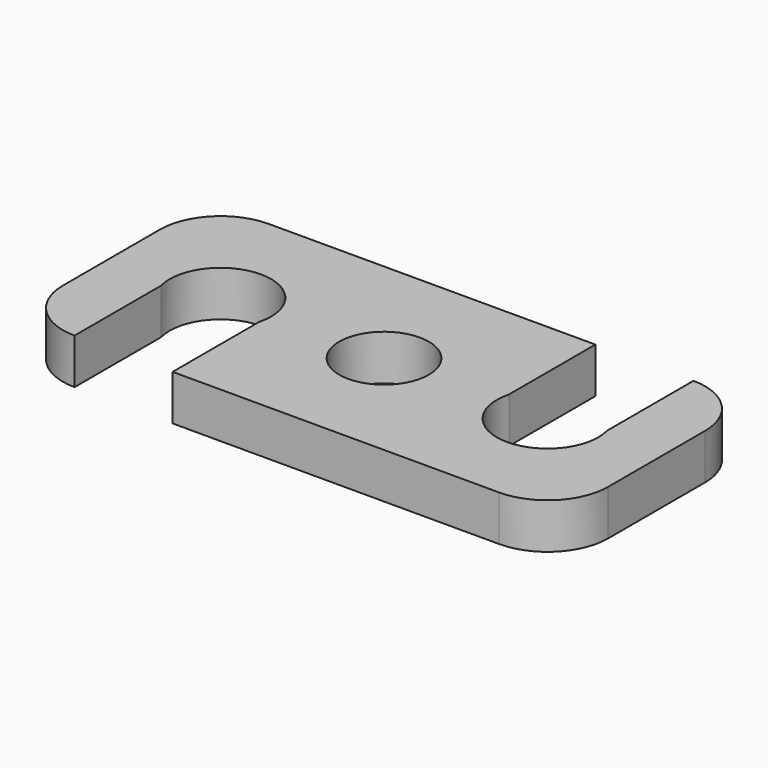
from build123d import *

# Parameters (mm, degrees)
F1_DEPTH = 19.05
F2_R     = 18.796
F3_DEPTH = 19.051
F5_DEPTH = 19.051


with BuildPart() as f1:
    # F0 (on Top) → F1 (new body)
    with BuildSketch(Plane.XY):
        with BuildLine():
            ThreePointArc((114.3, 25.4), (106.860512, 43.360512), (88.9, 50.8))
            Line((88.9, 50.8), (-88.9, 50.8))
            ThreePointArc((-88.9, 50.8), (-106.860512, 43.360512), (-114.3, 25.4))
            Line((-114.3, 25.4), (-114.3, -25.4))
            ThreePointArc((-114.3, -25.4), (-106.860512, -43.360512), (-88.9, -50.8))
            Line((-88.9, -50.8), (88.9, -50.8))
            ThreePointArc((88.9, -50.8), (106.860512, -43.360512), (114.3, -25.4))
            Line((114.3, -25.4), (114.3, 25.4))
        make_face()
    extrude(amount=F1_DEPTH)

    # F2 (on face) → F3 (cut, through all)
    with BuildSketch(Plane.XY.offset(19.05)):
        Circle(F2_R)
    extrude(amount=-F3_DEPTH, mode=Mode.SUBTRACT)

    # F4 (on face) → F5 (cut, through all)
    with BuildSketch(Plane.XY.offset(19.05)):
        with BuildLine():
            Line((-48.006, -50.8), (-48.006, -5.406457))
            ThreePointArc((-48.006, -5.406457), (-68.58, 21.2725), (-89.154, -5.406457))
            Line((-89.154, -5.406457), (-89.154, -50.8))
            Line((-89.154, -50.8), (-48.006, -50.8))
        make_face()
        with BuildLine():
            ThreePointArc((48.006, 5.406457), (68.58, -21.2725), (89.154, 5.406457))
            Line((89.154, 5.406457), (89.154, 50.8))
            Line((89.154, 50.8), (48.006, 50.8))
            Line((48.006, 50.8), (48.006, 5.406457))
        make_face()
    extrude(amount=-F5_DEPTH, mode=Mode.SUBTRACT)


solid = f1.part
